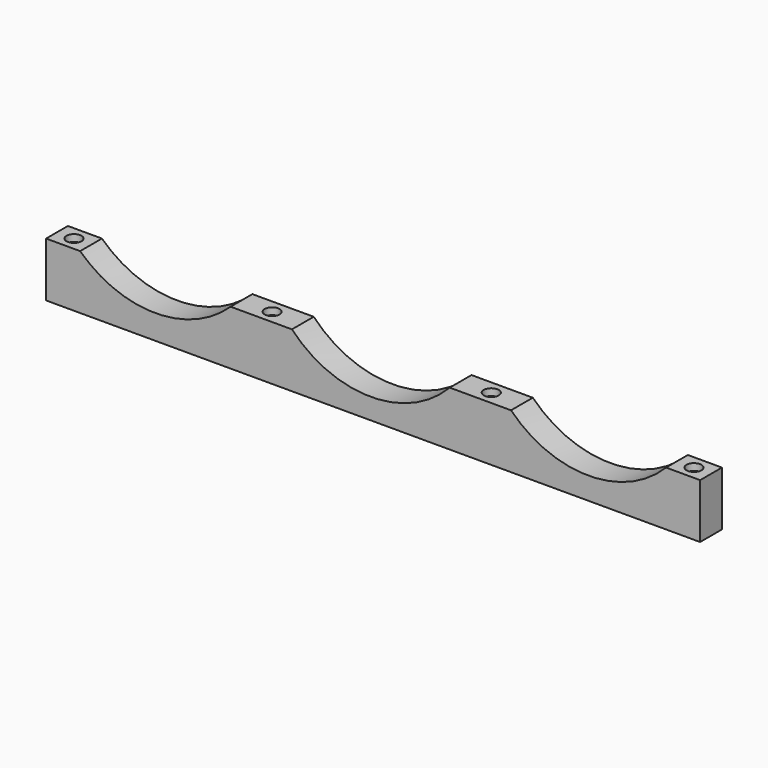
from build123d import *

# Parameters (mm, degrees)
F1_DEPTH  = 25.4
F2_R      = 6.604
F3_DEPTH  = 101.601
F4_R      = 13.97
F5_DEPTH  = 12.7
F6_R      = 6.604
F7_DEPTH  = 101.601
F8_R      = 13.97
F9_DEPTH  = 12.7
F10_R     = 6.604
F11_DEPTH = 101.601
F12_R     = 13.97
F13_DEPTH = 12.7
F14_R     = 6.604
F15_DEPTH = 101.601
F16_R     = 13.97
F17_DEPTH = 12.7


with BuildPart() as f1:
    # F0 (on Front) → F1 (new body, symmetric)
    with BuildSketch(Plane.XZ):
        with BuildLine():
            ThreePointArc((127.27204, -151.351064), (-12.964423, -207.50014), (-153.200886, -151.351064))
            Line((-153.200886, -151.351064), (-216.700886, -151.351064))
            Line((-216.700886, -151.351064), (-216.700886, -252.951064))
            Line((-216.700886, -252.951064), (1002.499114, -252.951064))
            Line((1002.499114, -252.951064), (1002.499114, -151.351064))
            Line((1002.499114, -151.351064), (938.999114, -151.351064))
            ThreePointArc((938.999114, -151.351064), (794.496976, -211.689691), (649.994838, -151.351064))
            Line((649.994838, -151.351064), (535.694838, -151.351064))
            ThreePointArc((535.694838, -151.351064), (388.633439, -214.325586), (241.57204, -151.351064))
            Line((241.57204, -151.351064), (127.27204, -151.351064))
        make_face()
    extrude(amount=F1_DEPTH, both=True)

    # F2 (on face) → F3 (cut, through all)
    with BuildSketch(Plane.XY.offset(-151.351064)):
        with Locations((-184.950886, 0)):
            Circle(F2_R)
    extrude(amount=-F3_DEPTH, mode=Mode.SUBTRACT)

    # F4 (on face) → F5 (cut)
    with BuildSketch(Plane.XY.offset(-151.351064)):
        with Locations((-184.950886, 0)):
            Circle(F4_R)
    extrude(amount=-F5_DEPTH, mode=Mode.SUBTRACT)

    # F6 (on face) → F7 (cut, through all)
    with BuildSketch(Plane.XY.offset(-151.351064)):
        with Locations((184.42204, 0)):
            Circle(F6_R)
    extrude(amount=-F7_DEPTH, mode=Mode.SUBTRACT)

    # F8 (on face) → F9 (cut)
    with BuildSketch(Plane.XY.offset(-151.351064)):
        with Locations((184.42204, 0)):
            Circle(F8_R)
    extrude(amount=-F9_DEPTH, mode=Mode.SUBTRACT)

    # F10 (on face) → F11 (cut, through all)
    with BuildSketch(Plane.XY.offset(-151.351064)):
        with Locations((592.844838, 0)):
            Circle(F10_R)
    extrude(amount=-F11_DEPTH, mode=Mode.SUBTRACT)

    # F12 (on face) → F13 (cut)
    with BuildSketch(Plane.XY.offset(-151.351064)):
        with Locations((592.844838, 0)):
            Circle(F12_R)
    extrude(amount=-F13_DEPTH, mode=Mode.SUBTRACT)

    # F14 (on face) → F15 (cut, through all)
    with BuildSketch(Plane.XY.offset(-151.351064)):
        with Locations((970.749114, 0)):
            Circle(F14_R)
    extrude(amount=-F15_DEPTH, mode=Mode.SUBTRACT)

    # F16 (on face) → F17 (cut)
    with BuildSketch(Plane.XY.offset(-151.351064)):
        with Locations((970.749114, 0)):
            Circle(F16_R)
    extrude(amount=-F17_DEPTH, mode=Mode.SUBTRACT)


solid = f1.part
